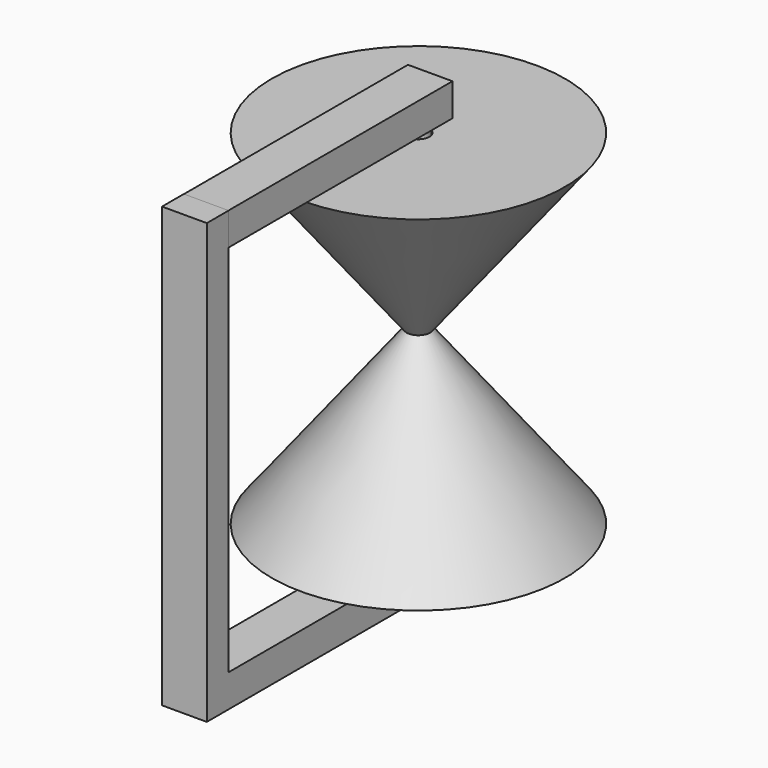
from build123d import *

# Parameters (mm, degrees)
F2_R          = 1.5460730092
F3_DEPTH      = 70.612
F4_R          = 1.4438423295
F5_DEPTH      = 26.67
F5_DEPTH_BACK = 27.178
F6_W          = 6.2321644509
F6_H          = 39.2259815708
F7_DEPTH      = 3.81
F7_DEPTH_BACK = 0.762
F8_W          = 6.2844125787
F8_H          = 39.2518651206
F9_DEPTH      = 3.81
F9_DEPTH_BACK = 0.762
F10_W         = 6.2738864217
F10_H         = 61.4785362427
F11_DEPTH     = 3.81


with BuildPart() as f1:
    # F0 (on Front) → F1 (revolve)
    with BuildSketch(Plane.XZ):
        Polygon((-18.8797935843, 24.103814736), (0, 0), (-18.8797935843, -24.103814736), (1.649691374, -24.103814736), (1.649691374, 0), (1.649691374, 24.103814736), align=None)
    revolve(axis=Axis((1.649691374, 0, -12.051907368), (0, 0, 1)))

    # F2 (on face) → F3 (cut)
    with BuildSketch(Plane(origin=(0, 0, -24.103814736), x_dir=(1, 0, 0), z_dir=(0, 0, -1))):
        with Locations((1.649691374, 0)):
            Circle(F2_R)
    extrude(amount=-F3_DEPTH, mode=Mode.SUBTRACT)


with BuildPart() as f5:
    # F4 (on Top) → F5 (new body, two sides)
    with BuildSketch(Plane.XY) as f5_sk:
        with Locations((1.6388042131, 0)):
            Circle(F4_R)
    extrude(amount=F5_DEPTH)
    extrude(f5_sk.sketch, amount=-F5_DEPTH_BACK)

    # F6 (on face) → F7 (join, two sides)
    with BuildSketch(Plane.XY.offset(26.67)) as f7_sk:
        with Locations((1.4663913171, -17.3217537813)):
            Rectangle(F6_W, F6_H)
    extrude(amount=F7_DEPTH)
    extrude(f7_sk.sketch, amount=-F7_DEPTH_BACK)

    # F8 (on face) → F9 (join, two sides)
    with BuildSketch(Plane(origin=(0, 0, -27.178), x_dir=(1, 0, 0), z_dir=(0, 0, -1))) as f9_sk:
        with Locations((1.4721277985, 17.2971443972)):
            Rectangle(F8_W, F8_H)
    extrude(amount=F9_DEPTH)
    extrude(f9_sk.sketch, amount=-F9_DEPTH_BACK)

    # F10 (on face) → F11 (join)
    with BuildSketch(Plane.XZ.offset(36.9230769575)):
        with Locations((1.477390877, -0.2487318786)):
            Rectangle(F10_W, F10_H)
    extrude(amount=F11_DEPTH)


solid = Compound([f1.part, f5.part])
